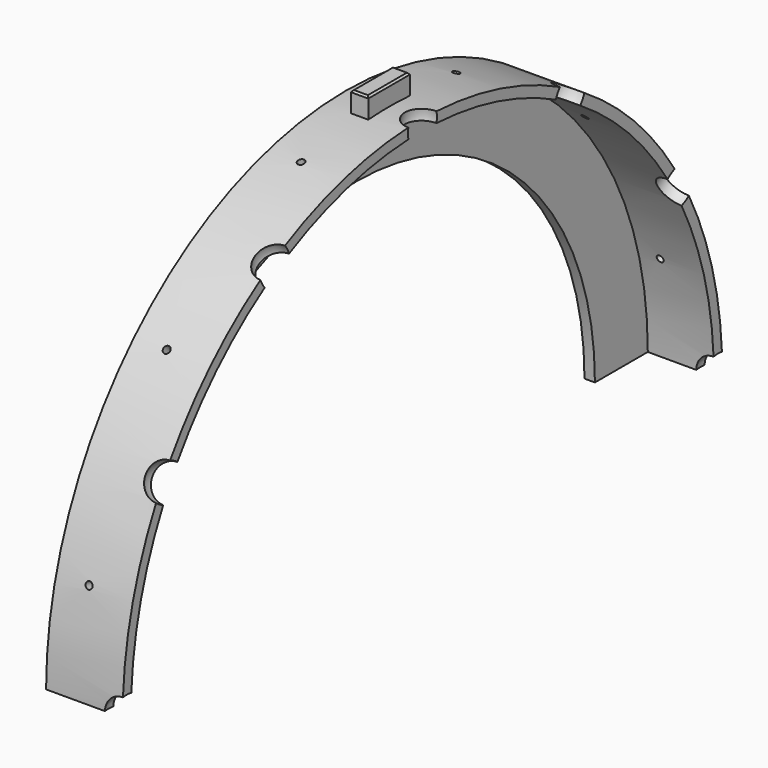
from build123d import *

# Parameters (mm, degrees)
F1_ANGLE  = 180
F24_W     = 1
F24_H     = 8
F26_W     = 1
F26_H     = 8
F28_W     = 1
F28_H     = 8
F30_W     = 1
F30_H     = 8
F32_W     = 1
F32_H     = 8
F34_W     = 1
F34_H     = 8
F37_ANGLE = 180
F39_DEPTH = 2.5
F40_SIZE  = 0.5
F38_R     = 2.5
F41_DEPTH = 10


with BuildPart() as f1:
    # F0 (on Top) → F1 (revolve)
    with BuildSketch(Plane.XY):
        Polygon((-6.9271570891, 85.73), (-6.9271570891, 104.73), (9.0728429109, 104.73), (10.0728429109, 104.73), (12.0728429109, 104.73), (12.0728429109, 107.73), (-9.9271570891, 107.73), (-9.9271570891, 85.73), align=None)
    revolve(axis=Axis((-2.8000006437, 0, 0), (1, 0, 0)), revolution_arc=F1_ANGLE)

    # F4 (on face) → F5 (revolve, cut)
    with BuildSketch(Plane(origin=(0, 0, 0), x_dir=(1, 0, 0), z_dir=(0, 0.5, 0.8660254038))):
        with BuildLine():
            Line((12.0728429109, -98.4443590894), (12.0728429109, -113.4318396543))
            ThreePointArc((12.0728429109, -113.4318396543), (17.2721543208, -105.9380993719), (12.0728429109, -98.4443590894))
        make_face()
    revolve(axis=Axis((12.0728429109, -91.7450852847, 52.9690496859), (0, 0.8660254038, -0.5)), mode=Mode.SUBTRACT)

    # F7 (on line) → F8 (revolve, cut)
    with BuildSketch(Plane(origin=(0, 0, 0), x_dir=(-1, 0, 0), z_dir=(0, 0.8660254038, 0.5))):
        with BuildLine():
            Line((-12.0904128999, 113.7578382334), (-12.0904128999, 98.7703576684))
            ThreePointArc((-12.0904128999, 98.7703576684), (-6.89110149, 106.2640979509), (-12.0904128999, 113.7578382334))
        make_face()
    revolve(axis=Axis((12.0904128999, -53.1320489754, 92.0274083357), (0, -0.5, 0.8660254038)), mode=Mode.SUBTRACT)

    # F10 (on line) → F11 (revolve, cut)
    with BuildSketch(Plane(origin=(0, 0, 0), x_dir=(-1, 0, 0), z_dir=(0, 1, 0))):
        with BuildLine():
            Line((-12.0728425682, 113.65205489), (-12.0728425682, 98.6645743251))
            ThreePointArc((-12.0728425682, 98.6645743251), (-6.8735311583, 106.1583146076), (-12.0728425682, 113.65205489))
        make_face()
    revolve(axis=Axis((12.0728425682, 0, 106.1583146076), (0, 0, 1)), mode=Mode.SUBTRACT)

    # F13 (on line) → F14 (revolve, cut)
    with BuildSketch(Plane(origin=(0, 0, 0), x_dir=(-1, 0, 0), z_dir=(0, 0.8660254038, -0.5))):
        with BuildLine():
            Line((-12.0728425682, 113.5986789306), (-12.0728425682, 98.6111983657))
            ThreePointArc((-12.0728425682, 98.6111983657), (-6.8735311583, 106.1049386482), (-12.0728425682, 113.5986789306))
        make_face()
    revolve(axis=Axis((12.0728425682, 53.0524693241, 91.8895723363), (0, 0.5, 0.8660254038)), mode=Mode.SUBTRACT)

    # F16 (on line) → F17 (revolve, cut)
    with BuildSketch(Plane(origin=(0, 0, 0), x_dir=(1, 0, 0), z_dir=(0, -0.5, 0.8660254038))):
        with BuildLine():
            Line((12.0728425682, 113.6506369075), (12.0728425682, 98.6631563425))
            ThreePointArc((12.0728425682, 98.6631563425), (17.2721539781, 106.156896625), (12.0728425682, 113.6506369075))
        make_face()
    revolve(axis=Axis((12.0728425682, 91.9345692642, 53.0784483125), (0, 0.8660254038, 0.5)), mode=Mode.SUBTRACT)

    # F24 (on line) → F25 (revolve, cut)
    with BuildSketch(Plane(origin=(0, 0, 0), x_dir=(1, 0, 0), z_dir=(0, -0.2588190451, -0.9659258263))):
        with Locations((-1.000000095, 106.325245738)):
            Rectangle(F24_W, F24_H)
    revolve(axis=Axis((-0.500000095, -102.7023008449, 27.5189985722), (0, 0.9659258263, -0.2588190451)), mode=Mode.SUBTRACT)

    # F26 (on face) → F27 (revolve, cut)
    with BuildSketch(Plane(origin=(0, 0, 0), x_dir=(1, 0, 0), z_dir=(0, -0.7071067812, -0.7071067812))):
        with Locations((-1.000000013, 107.5976186395)):
            Rectangle(F26_W, F26_H)
    revolve(axis=Axis((-0.500000013, -76.0830057795, 76.0830057795), (0, 0.7071067812, -0.7071067812)), mode=Mode.SUBTRACT)

    # F28 (on line) → F29 (revolve, cut)
    with BuildSketch(Plane(origin=(0, 0, 0), x_dir=(-1, 0, 0), z_dir=(0, 0.9659258263, 0.2588190451))):
        with Locations((1, 107.6880686879)):
            Rectangle(F28_W, F28_H)
    revolve(axis=Axis((-0.5, -27.8717231067, 104.0186867288), (0, 0.2588190451, -0.9659258263)), mode=Mode.SUBTRACT)

    # F30 (on line) → F31 (revolve, cut)
    with BuildSketch(Plane(origin=(0, 0, 0), x_dir=(-1, 0, 0), z_dir=(0, 0.9659258263, -0.2588190451))):
        with Locations((1, 108.038760066)):
            Rectangle(F30_W, F30_H)
    revolve(axis=Axis((-0.5, 27.9624887144, 104.357428588), (0, -0.2588190451, -0.9659258263)), mode=Mode.SUBTRACT)

    # F32 (on face) → F33 (revolve, cut)
    with BuildSketch(Plane(origin=(0, 0, 0), x_dir=(1, 0, 0), z_dir=(0, -0.7071067812, 0.7071067812))):
        with Locations((-1, 108.0043979883)):
            Rectangle(F32_W, F32_H)
    revolve(axis=Axis((-0.5, 76.3706422155, 76.3706422155), (0, -0.7071067812, -0.7071067812)), mode=Mode.SUBTRACT)

    # F34 (on line) → F35 (revolve, cut)
    with BuildSketch(Plane(origin=(0, 0, 0), x_dir=(1, 0, 0), z_dir=(0, -0.2588190451, 0.9659258263))):
        with Locations((-1, 106.2417321801)):
            Rectangle(F34_W, F34_H)
    revolve(axis=Axis((-0.5, 102.6216329425, 27.4973836729), (0, -0.9659258263, -0.2588190451)), mode=Mode.SUBTRACT)

    # F36 (on Top) → F37 (revolve, cut)
    with BuildSketch(Plane.XY):
        with BuildLine():
            Line((12.0728429109, 113.73), (12.0728429109, 98.742519435))
            ThreePointArc((12.0728429109, 98.742519435), (17.2721543208, 106.2362597175), (12.0728429109, 113.73))
        make_face()
        with BuildLine():
            ThreePointArc((12.0728429109, -113.73), (17.2721543208, -106.2362597175), (12.0728429109, -98.742519435))
            Line((12.0728429109, -98.742519435), (12.0728429109, -113.73))
        make_face()
    revolve(axis=Axis((12.0728429109, 106.2362597175, 0), (0, -1, 0)), revolution_arc=F37_ANGLE, mode=Mode.SUBTRACT)

    # F38 (on Right) → F39 (join, symmetric)
    with BuildSketch(Plane.YZ):
        with BuildLine():
            Line((-7.4999998324, 113.3076257706), (-7.4999998324, 106.3076257706))
            ThreePointArc((-7.4999998324, 106.3076257706), (1.676e-07, 107.1206399426), (7.5000001676, 106.3076257706))
            Line((7.5000001676, 106.3076257706), (7.5000001676, 113.3076257706))
            Line((7.5000001676, 113.3076257706), (-7.4999998324, 113.3076257706))
        make_face()
    extrude(amount=F39_DEPTH, both=True)

    # F40
    f40_edges = [f1.edges().sort_by_distance(p)[0] for p in [
        (2.5, 0, 113.307626),
        (0, -7.5, 113.307626),
        (-2.5, 0, 113.307626),
        (0, 7.5, 113.307626),
    ]]
    chamfer(f40_edges, length=F40_SIZE)

    # F38 (on Right) → F41 (cut)
    with BuildSketch(Plane.YZ):
        with Locations((0, 97.4075594544)):
            Circle(F38_R)
    extrude(amount=-F41_DEPTH, mode=Mode.SUBTRACT)


solid = f1.part
